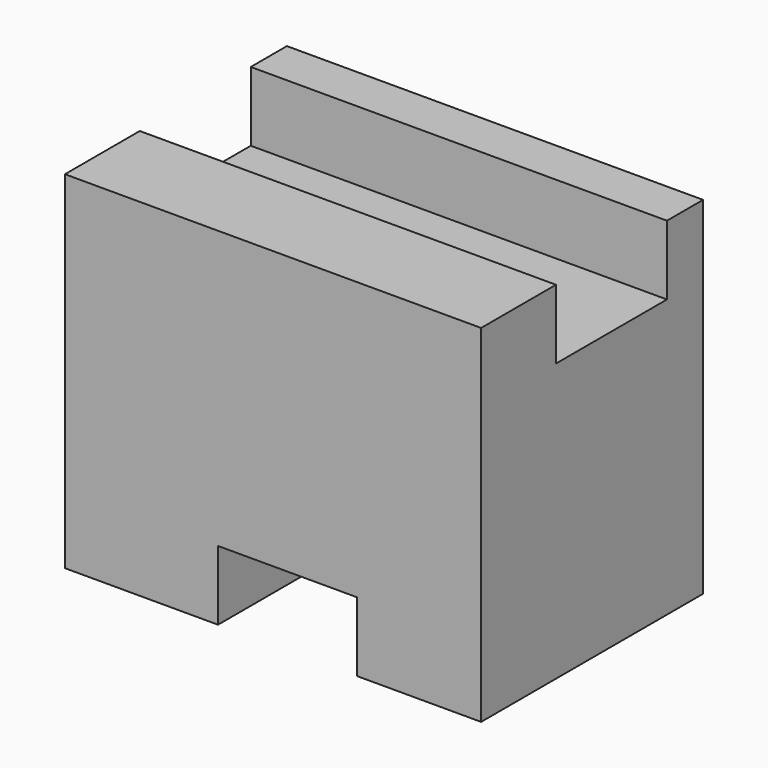
from build123d import *

# Parameters (mm, degrees)
F0_W     = 25.4
F0_H     = 31.75
F1_DEPTH = 38.1
F2_W     = 12.7
F2_H     = 25.4
F3_DEPTH = 6.35
F4_W     = 38.1
F4_H     = 12.7
F5_DEPTH = 6.35


with BuildPart() as f1:
    # F0 (on Right) → F1 (new body)
    with BuildSketch(Plane.YZ):
        with Locations((12.7, 15.875)):
            Rectangle(F0_W, F0_H)
    extrude(amount=F1_DEPTH)

    # F2 (on face) → F3 (cut)
    with BuildSketch(Plane(origin=(0, 0, 0), x_dir=(1, 0, 0), z_dir=(0, 0, -1))):
        with Locations((20.366352, -12.7)):
            Rectangle(F2_W, F2_H)
    extrude(amount=-F3_DEPTH, mode=Mode.SUBTRACT)

    # F4 (on face) → F5 (cut)
    with BuildSketch(Plane.XY.offset(31.75)):
        with Locations((19.05, 14.915548)):
            Rectangle(F4_W, F4_H)
    extrude(amount=-F5_DEPTH, mode=Mode.SUBTRACT)


solid = f1.part
